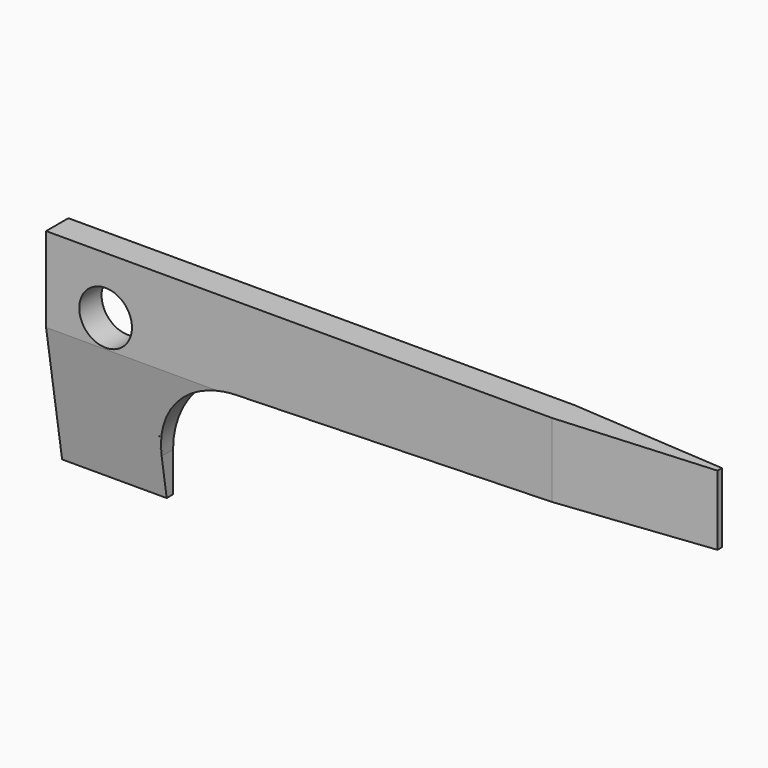
from build123d import *

# Parameters (mm, degrees)
F0_R     = 2.399673
F1_DEPTH = 2.54
F3_DEPTH = 25.4
F5_DEPTH = 25.4


with BuildPart() as f1:
    # F0 (on Front) → F1 (new body)
    with BuildSketch(Plane.XZ):
        with BuildLine():
            Line((50.793077, 7.724595), (-9.531923, 7.724595))
            Line((-9.531923, 7.724595), (-9.531923, -11.325405))
            Line((-9.531923, -11.325405), (-0.006923, -11.325405))
            Line((-0.006923, -11.325405), (-0.000719, -4.049985))
            Line((-0.000719, -4.049985), (-0.001371, -7.724225))
            ThreePointArc((-0.001371, -7.724225), (2.248548, -2.188908), (7.721398, 0.208962))
            Line((7.721398, 0.208962), (50.793077, 1.374595))
            Line((50.793077, 1.374595), (50.793077, 7.724595))
        make_face()
        with Locations((-4.112308, 2.531883)):
            Circle(F0_R, mode=Mode.SUBTRACT)
    extrude(amount=F1_DEPTH)

    # F2 (on face) → F3 (cut)
    with BuildSketch(Plane(origin=(-9.531923, 0, 0), x_dir=(0, -1, 0), z_dir=(-1, 0, 0))):
        Polygon((2.54, -11.325405), (2.54, 0), (0.716685, -11.325405), align=None)
    extrude(amount=-F3_DEPTH, mode=Mode.SUBTRACT)

    # F4 (on face) → F5 (cut)
    with BuildSketch(Plane.XY.offset(7.724595)):
        Polygon((50.793077, 0), (36.557514, 0), (50.793077, -1.016), align=None)
        Polygon((50.793077, -1.524), (36.557514, -2.54), (50.793077, -2.54), align=None)
    extrude(amount=-F5_DEPTH, mode=Mode.SUBTRACT)


solid = f1.part
